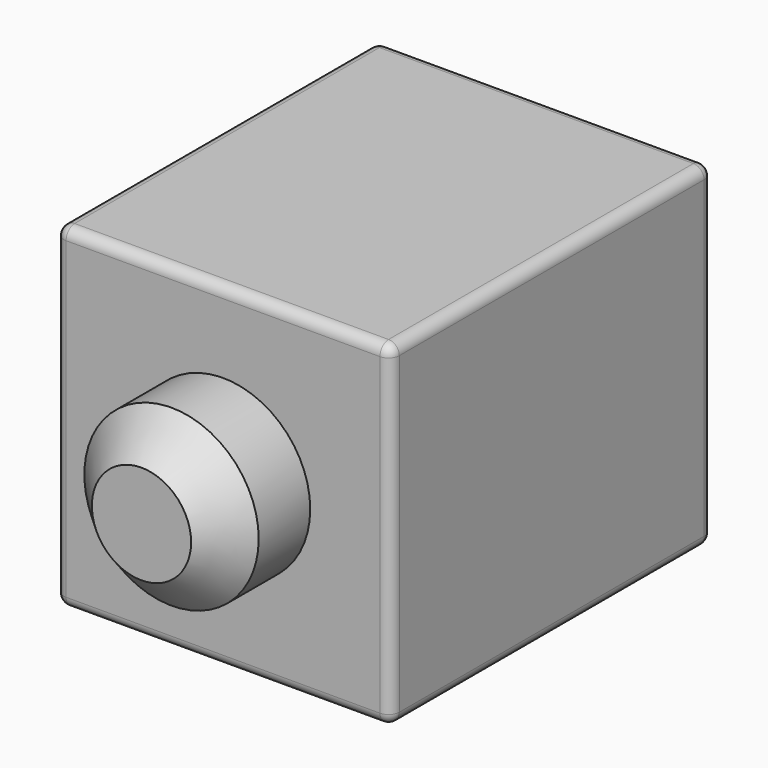
from build123d import *

# Parameters (mm, degrees)
F0_W     = 15.875
F0_H     = 15.875
F1_DEPTH = 19.05
F2_R     = 4.1275
F3_DEPTH = 4.826
F4_SIZE  = 1.778
F5_T     = -1.5875
F6_R     = 0.508


with BuildPart() as f1:
    # F0 (on Front) → F1 (new body)
    with BuildSketch(Plane.XZ):
        Rectangle(F0_W, F0_H)
    extrude(amount=F1_DEPTH)

    # F2 (on face) → F3 (join)
    with BuildSketch(Plane.XZ.offset(19.05)):
        Circle(F2_R)
    extrude(amount=F3_DEPTH)

    # F4
    f4_edges = [f1.edges().sort_by_distance(p)[0] for p in [
        (-4.1275, -23.876, 0),
    ]]
    chamfer(f4_edges, length=F4_SIZE)

    # F5
    f5_openings = [f1.faces().sort_by_distance(p)[0] for p in [
        (0, 0, 0),
    ]]
    offset(amount=F5_T, openings=f5_openings, kind=Kind.INTERSECTION)

    # F6
    f6_edges = [f1.edges().sort_by_distance(p)[0] for p in [
        (0, -19.05, 7.9375),
        (-7.9375, -19.05, 0),
        (0, -19.05, -7.9375),
        (7.9375, -19.05, 0),
        (-7.9375, -9.525, 7.9375),
        (-7.9375, -9.525, -7.9375),
        (7.9375, -9.525, 7.9375),
        (7.9375, -9.525, -7.9375),
        (0, 0, -7.9375),
        (7.9375, 0, 0),
        (0, 0, 7.9375),
        (-7.9375, 0, 0),
    ]]
    fillet(f6_edges, radius=F6_R)


solid = f1.part
